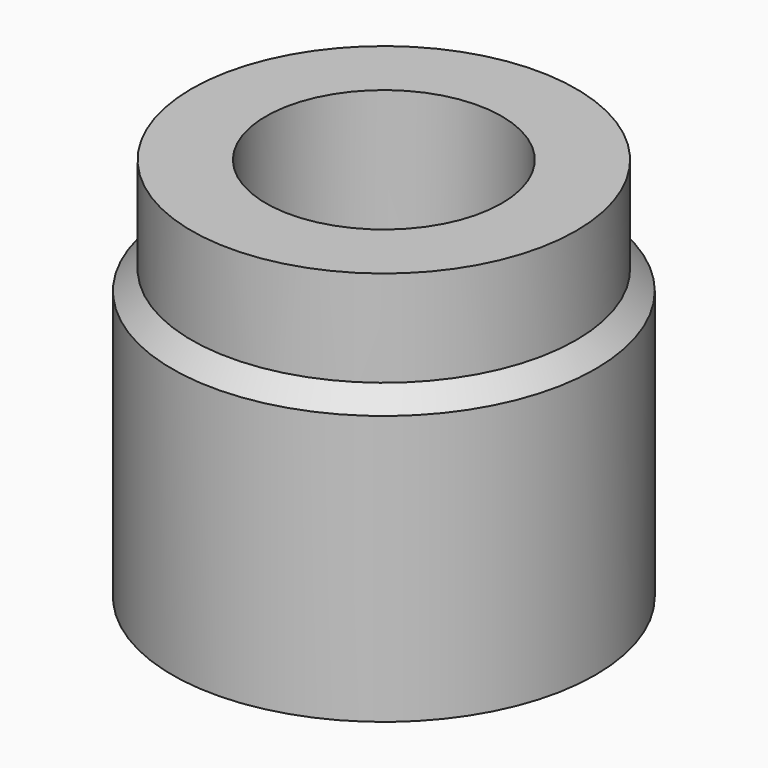
from build123d import *

# Parameters (mm, degrees)
F0_R     = 54.9873504391
F0_R_2   = 30.6504677255
F1_DEPTH = 25
F2_DEPTH = 50
F3_SIZE  = 5
F4_DEPTH = 25


with BuildPart() as f1:
    # F0 (on Top) → F1 (new body)
    with BuildSketch(Plane.XY):
        Circle(F0_R)
        Circle(F0_R_2, mode=Mode.SUBTRACT)
    extrude(amount=F1_DEPTH)

    # F2 (add): a face of the model
    f2_faces = [f1.faces().sort_by_distance(p)[0] for p in [
        (-53.4320733041, 0, 25),
    ]]
    extrude(f2_faces, amount=F2_DEPTH)

    # F3
    f3_edges = [f1.edges().sort_by_distance(p)[0] for p in [
        (-54.98735, 0, 75),
    ]]
    chamfer(f3_edges, length=F3_SIZE)

    # F4 (add): a face of the model
    f4_faces = [f1.faces().sort_by_distance(p)[0] for p in [
        (-48.5734946603, 0, 75),
    ]]
    extrude(f4_faces, amount=F4_DEPTH)


solid = f1.part
